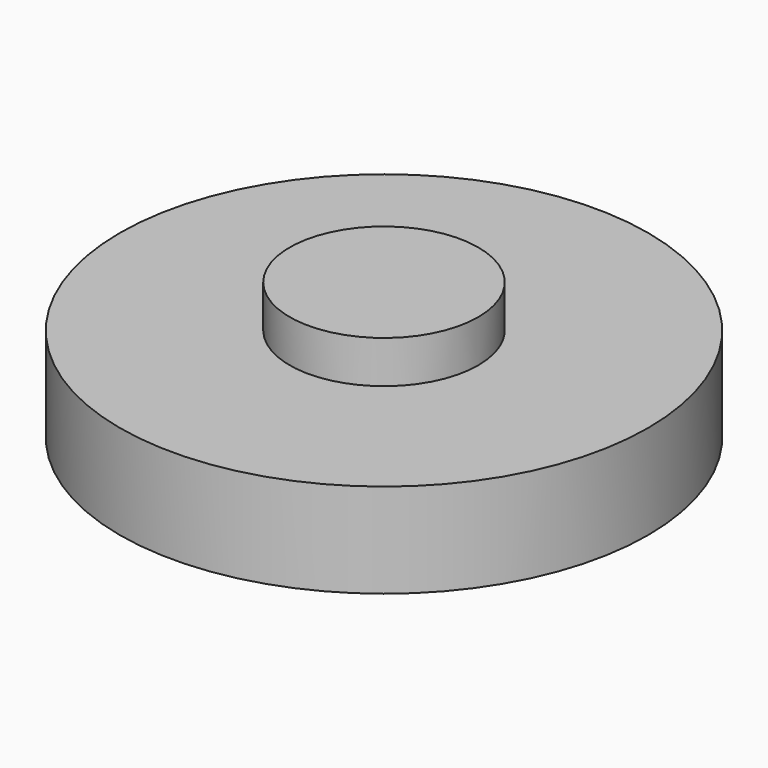
from build123d import *

# Parameters (mm, degrees)
CYLINDER1201_R     = 5
CYLINDER1201_DEPTH = 9.5
CYLINDER1197_R     = 14
CYLINDER1197_DEPTH = 5


with BuildPart() as cylinder1201:
    # Cylinder1201 → Cylinder1201 (new body)
    with BuildSketch(Plane(origin=(462, 85, 142.75), x_dir=(1, 0, 0), z_dir=(0, 0, 1))):
        Circle(CYLINDER1201_R)
    extrude(amount=CYLINDER1201_DEPTH)


with BuildPart() as fusion248002050124:
    # Cylinder1197 → Cylinder1197 (new body)
    with BuildSketch(Plane(origin=(462, 85, 145), x_dir=(1, 0, 0), z_dir=(0, 0, 1))):
        Circle(CYLINDER1197_R)
    extrude(amount=CYLINDER1197_DEPTH)

    # Fusion248002050124: union Cylinder1201
    add(cylinder1201.part)


with BuildPart() as fusion248002050124_1:
    # Fusion248002050124 placement: moved
    add(fusion248002050124.part.moved(Location((0, 0, -32.75))))


solid = fusion248002050124_1.part
